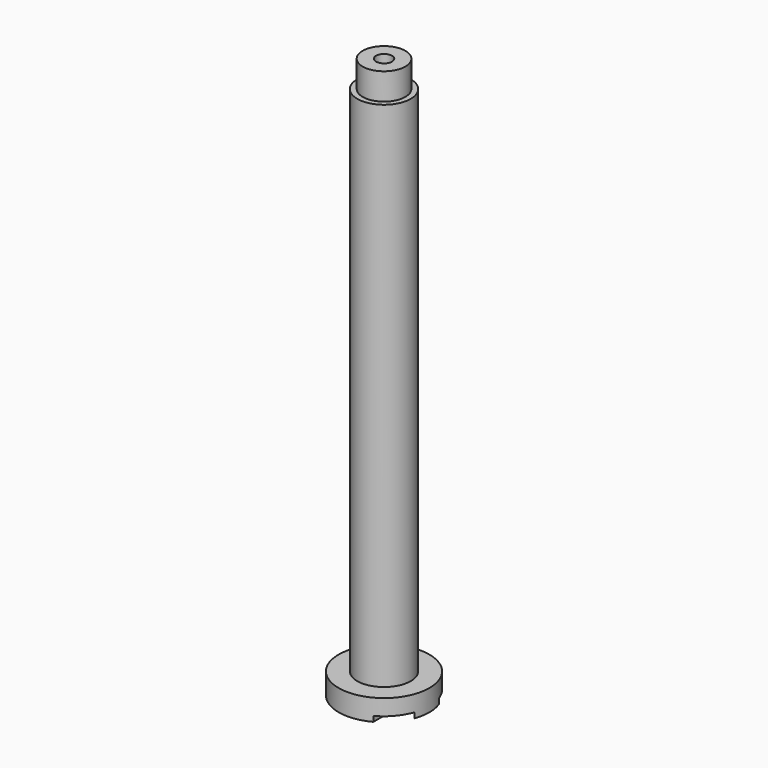
from build123d import *

# Parameters (mm, degrees)
F0_R     = 8.5
F1_DEPTH = 4
F2_R     = 5
F3_DEPTH = 100
F4_W     = 4
F4_H     = 5
F6_W     = 4
F6_H     = 36.891641
F7_DEPTH = 1
F8_R     = 1.5
F9_DEPTH = 122


with BuildPart() as f1:
    # F0 (on Top) → F1 (new body)
    with BuildSketch(Plane.XY):
        Circle(F0_R)
    extrude(amount=F1_DEPTH)

    # F2 (on Top) → F3 (join)
    with BuildSketch(Plane.XY):
        Circle(F2_R)
    extrude(amount=F3_DEPTH)

    # F4 (on Right) → F5 (revolve)
    with BuildSketch(Plane.YZ):
        with Locations((2, 102.5)):
            Rectangle(F4_W, F4_H)
    revolve(axis=Axis((0, 0, 102.5), (0, 0, -1)))

    # F6 (on face) → F7 (cut)
    with BuildSketch(Plane(origin=(0, 0, 0), x_dir=(1, 0, 0), z_dir=(0, 0, -1))):
        with Locations((6, -0.745802)):
            Rectangle(F6_W, F6_H)
    extrude(amount=-F7_DEPTH, mode=Mode.SUBTRACT)

    # F8 (on face) → F9 (cut)
    with BuildSketch(Plane.XY.offset(105)):
        Circle(F8_R)
    extrude(amount=-F9_DEPTH, mode=Mode.SUBTRACT)


solid = f1.part
